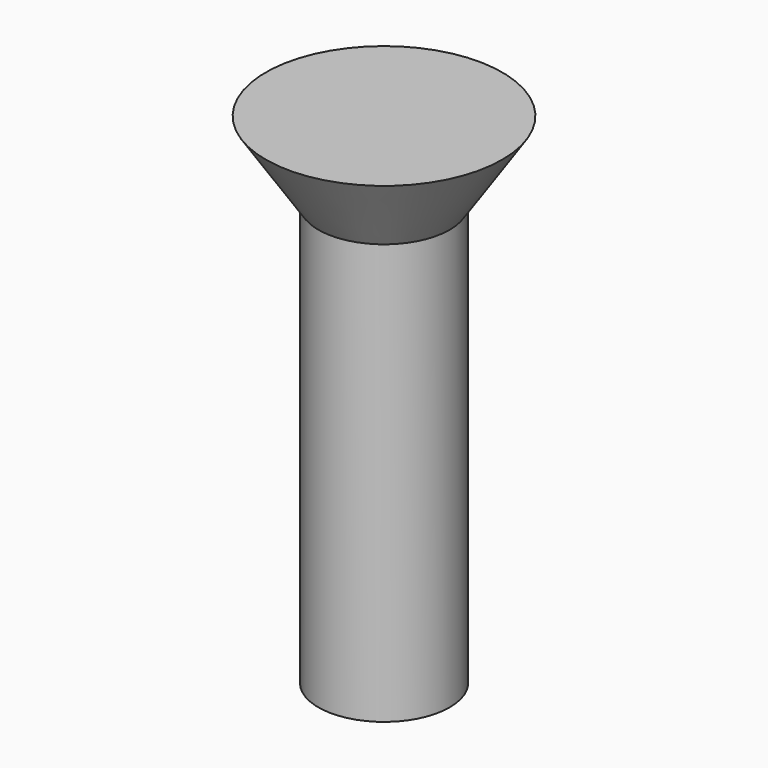
from build123d import *

# Parameters (mm, degrees)
CYLINDER011_R                   = 2.5
CYLINDER011_DEPTH               = 16
FUSION001018017_PLACEMENT_ANGLE = 180
CLONE017_PLACEMENT_ANGLE        = 180


with BuildPart() as cone003:
    # Cone003 → Cone003 (revolve)
    with BuildSketch(Plane(origin=(0, 0, -3), x_dir=(1, 0, 0), z_dir=(0, -1, 0))):
        Polygon((0, 0), (4.5, 0), (2.5, 3), (0, 3), align=None)
    revolve(axis=Axis((0, 0, -3), (0, 0, 1)))


with BuildPart() as obj1:
    # Cylinder011 → Cylinder011 (new body)
    with BuildSketch(Plane.XY):
        Circle(CYLINDER011_R)
    extrude(amount=CYLINDER011_DEPTH)

    # Fusion001018017: union Cone003
    add(cone003.part)


with BuildPart() as obj1_1:
    # Fusion001018017 placement: moved
    add(obj1.part.moved(Location((45, 15, 21))).rotate(Axis((45, 15, 21), (0, 1, 0)), FUSION001018017_PLACEMENT_ANGLE))


with BuildPart() as obj1_2:
    # Clone017 placement: moved
    add(obj1_1.part.moved(Location((90, 110, 0))).rotate(Axis((90, 110, 0), (0, 0, 1)), CLONE017_PLACEMENT_ANGLE))


solid = obj1_2.part
